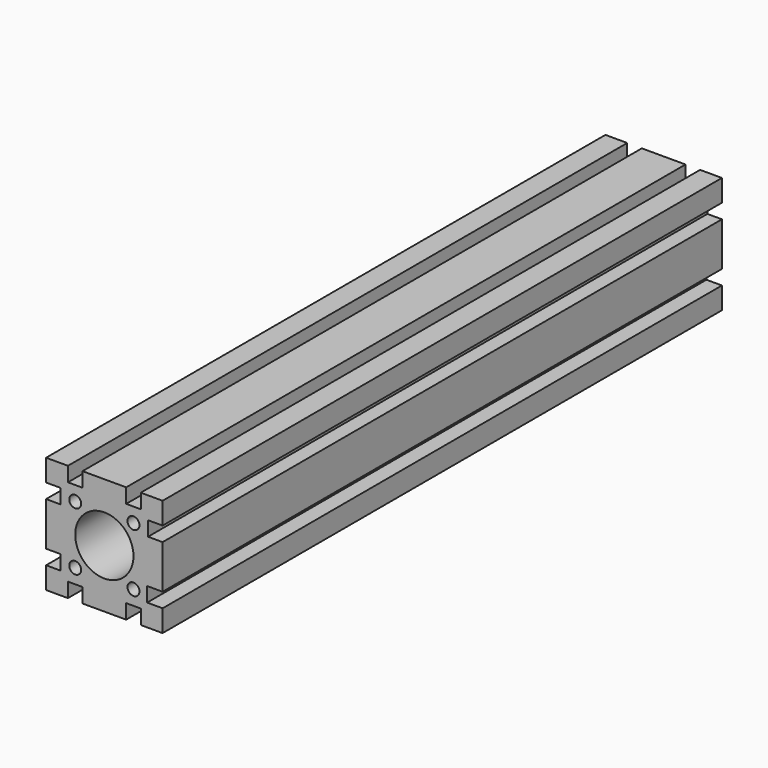
from build123d import *

# Parameters (mm, degrees)
F0_R     = 2.6035
F0_R_2   = 12.7
F1_DEPTH = 152.4


with BuildPart() as f1:
    # F0 (on Front) → F1 (new body, symmetric)
    with BuildSketch(Plane.XZ):
        Polygon((15.875, -25.4), (25.4, -25.4), (25.4, -15.875), (18.651077, -15.875), (18.651077, -9.525), (25.4, -9.525), (25.4, 9.525), (19.05, 9.525), (19.05, 15.875), (25.4, 15.875), (25.4, 25.4), (15.875, 25.4), (15.875, 19.05), (9.525, 19.05), (9.525, 25.4), (-9.525, 25.4), (-9.525, 19.05), (-15.875, 19.05), (-15.875, 25.4), (-25.4, 25.4), (-25.4, 15.875), (-19.05, 15.875), (-19.05, 9.525), (-25.4, 9.525), (-25.4, -9.525), (-19.05, -9.525), (-19.05, -15.875), (-25.4, -15.875), (-25.4, -25.4), (-15.875, -25.4), (-15.875, -19.05), (-9.525, -19.05), (-9.525, -25.4), (9.525, -25.4), (9.525, -19.05), (15.875, -19.05), align=None)
        with Locations((-12.7, -12.7)):
            Circle(F0_R, mode=Mode.SUBTRACT)
        Circle(F0_R_2, mode=Mode.SUBTRACT)
        with Locations((12.7, -12.7)):
            Circle(F0_R, mode=Mode.SUBTRACT)
        with Locations((-12.7, 12.7)):
            Circle(F0_R, mode=Mode.SUBTRACT)
        with Locations((12.7, 12.7)):
            Circle(F0_R, mode=Mode.SUBTRACT)
    extrude(amount=F1_DEPTH, both=True)


solid = f1.part
